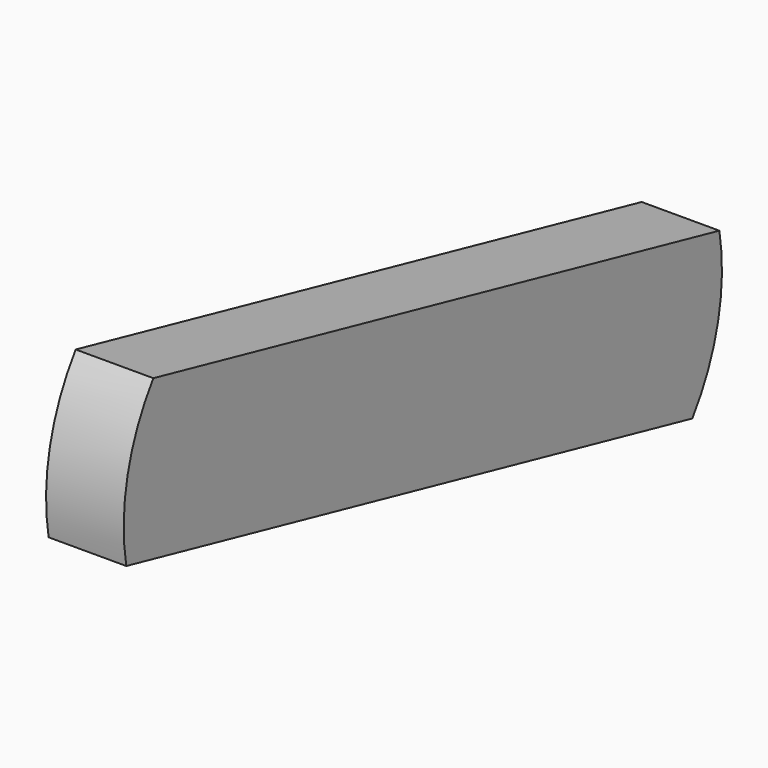
from build123d import *

# Parameters (mm, degrees)
F1_DEPTH = 76.2


with BuildPart() as f1:
    # F0 (on Right) → F1 (new body)
    with BuildSketch(Plane.YZ):
        with BuildLine():
            Line((-382.595055, 30.588292), (311.561387, -124.176933))
            ThreePointArc((311.561387, -124.176933), (343.191252, -53.158019), (344.725363, 24.570876))
            Line((344.725363, 24.570876), (-349.431078, 179.336101))
            ThreePointArc((-349.431078, 179.336101), (-381.060943, 108.317186), (-382.595055, 30.588292))
        make_face()
    extrude(amount=F1_DEPTH)


solid = f1.part
